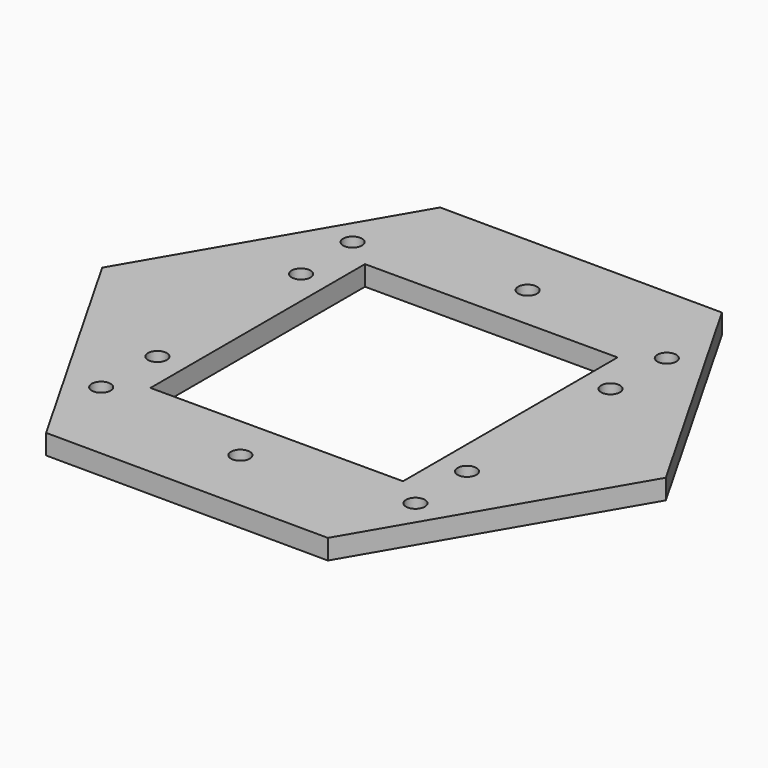
from build123d import *

# Parameters (mm, degrees)
F0_R     = 1.5
F0_W     = 40.193852
F0_H     = 42.670768
F1_DEPTH = 3.175


with BuildPart() as f1:
    # F0 (on Top) → F1 (new body)
    with BuildSketch(Plane.XY):
        Polygon((-22.673526, -38.870958), (22.326474, -39.071328), (45, -0.20037), (22.673526, 38.870958), (-22.326474, 39.071328), (-45, 0.20037), align=None)
        with Locations((-25, -25)):
            Circle(F0_R, mode=Mode.SUBTRACT)
        with Locations((-0.063241, -28.483691)):
            Circle(F0_R, mode=Mode.SUBTRACT)
        with Locations((-24.69922, -14.187078)):
            Circle(F0_R, mode=Mode.SUBTRACT)
        with Locations((25, -25)):
            Circle(F0_R, mode=Mode.SUBTRACT)
        with Locations((24.63598, -14.296613)):
            Circle(F0_R, mode=Mode.SUBTRACT)
        with Locations((-24.63598, 14.296613)):
            Circle(F0_R, mode=Mode.SUBTRACT)
        with Locations((-25, 25)):
            Circle(F0_R, mode=Mode.SUBTRACT)
        Rectangle(F0_W, F0_H, mode=Mode.SUBTRACT)
        with Locations((24.69922, 14.187078)):
            Circle(F0_R, mode=Mode.SUBTRACT)
        with Locations((0.063241, 28.483691)):
            Circle(F0_R, mode=Mode.SUBTRACT)
        with Locations((25, 25)):
            Circle(F0_R, mode=Mode.SUBTRACT)
    extrude(amount=F1_DEPTH)


solid = f1.part
